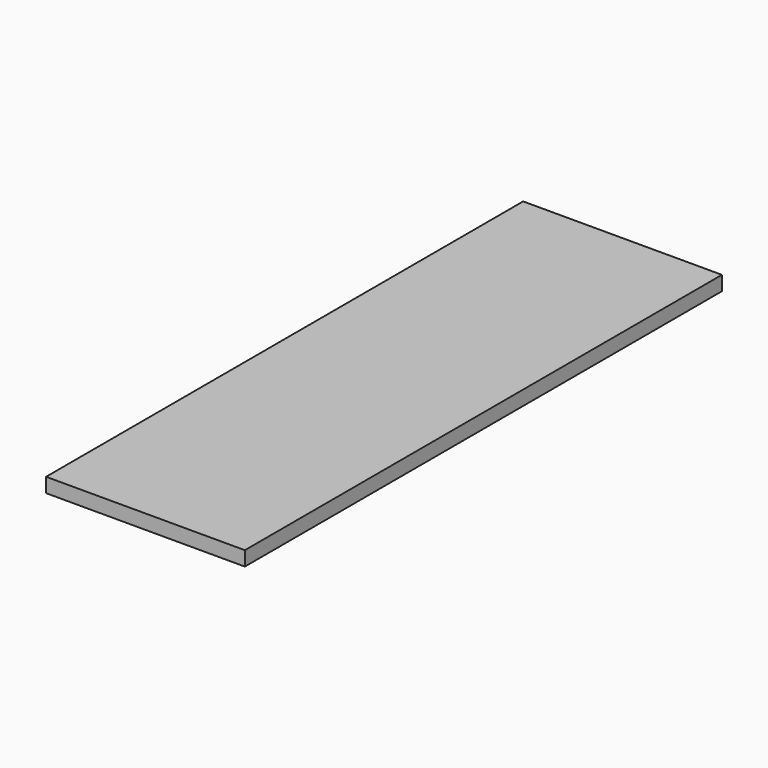
from build123d import *

# Parameters (mm, degrees)
PAD_DEPTH = 12


with BuildPart() as part:
    # Sketch → Pad (new body)
    with BuildSketch(Plane.XY):
        Polygon((0, 495), (165, 495), (165, 0), (0, 0), (0, 247.5), align=None)
    extrude(amount=PAD_DEPTH)


solid = part.part
